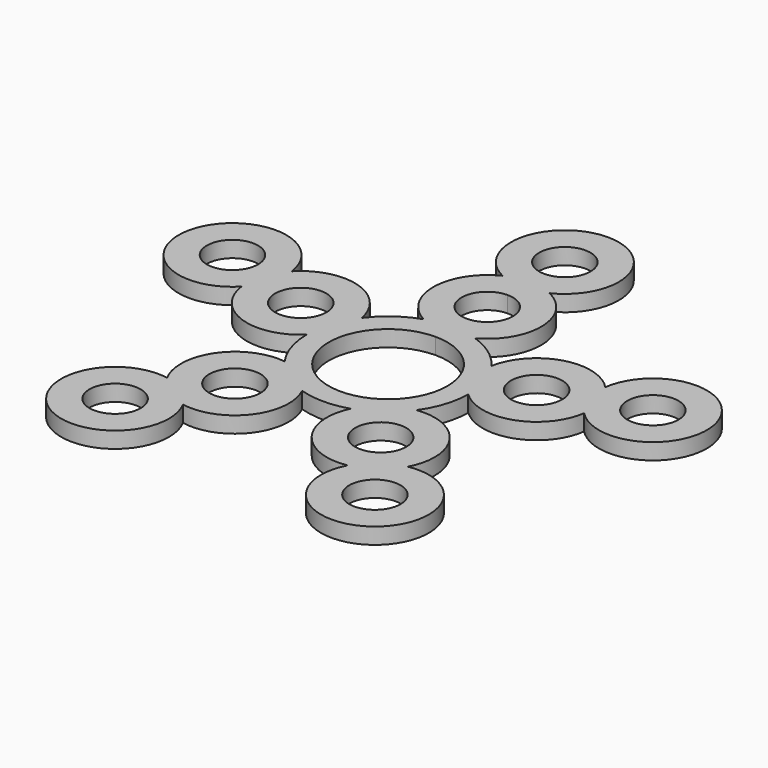
from build123d import *

# Parameters (mm, degrees)
F0_R     = 4.75
F1_DEPTH = 3


with BuildPart() as f1:
    # F0 (on Top) → F1 (new body)
    with BuildSketch(Plane.XY):
        with BuildLine():
            ThreePointArc((0, 11), (-7.778175, -7.778175), (11, 0))
            ThreePointArc((11, 0), (7.778175, 7.778175), (0, 11))
        make_face()
        with BuildLine():
            ThreePointArc((4.75, 41), (-3.358757, 44.358757), (0, 36.25))
            ThreePointArc((0, 36.25), (3.358757, 37.641243), (4.75, 41))
        make_face()
        with BuildLine():
            ThreePointArc((-4.358899, 32), (-9.997173, 23.23776), (-4.781818, 14.217391))
            ThreePointArc((-4.781818, 14.217391), (-8.816779, 12.135255), (-12.04388, 8.941195))
            ThreePointArc((-12.04388, 8.941195), (-19.011127, 16.688739), (-29.086835, 14.034103))
            ThreePointArc((-29.086835, 14.034103), (-48.503882, 15.759867), (-31.780782, 5.742985))
            ThreePointArc((-31.780782, 5.742985), (-25.18972, -2.327014), (-14.999206, -0.154364))
            ThreePointArc((-14.999206, -0.154364), (-14.265848, -4.635255), (-12.225345, -8.691429))
            ThreePointArc((-12.225345, -8.691429), (-21.746696, -12.923552), (-22.335551, -23.326447))
            ThreePointArc((-22.335551, -23.326447), (-29.977048, -41.259867), (-15.282705, -28.45064))
            ThreePointArc((-15.282705, -28.45064), (-5.57093, -24.675934), (-4.488201, -14.312793))
            ThreePointArc((-4.488201, -14.312793), (0, -15), (4.488201, -14.312793))
            ThreePointArc((4.488201, -14.312793), (5.57093, -24.675934), (15.282705, -28.45064))
            ThreePointArc((15.282705, -28.45064), (29.977048, -41.259867), (22.335551, -23.326447))
            ThreePointArc((22.335551, -23.326447), (21.746696, -12.923552), (12.225345, -8.691429))
            ThreePointArc((12.225345, -8.691429), (14.265848, -4.635255), (14.999206, -0.154364))
            ThreePointArc((14.999206, -0.154364), (25.18972, -2.327014), (31.780782, 5.742985))
            ThreePointArc((31.780782, 5.742985), (48.503882, 15.759867), (29.086835, 14.034103))
            ThreePointArc((29.086835, 14.034103), (19.011127, 16.688739), (12.04388, 8.941195))
            ThreePointArc((12.04388, 8.941195), (8.816779, 12.135255), (4.781818, 14.217391))
            ThreePointArc((4.781818, 14.217391), (9.997173, 23.23776), (4.358899, 32))
            ThreePointArc((4.358899, 32), (0, 51), (-4.358899, 32))
        make_face()
        with BuildLine():
            ThreePointArc((-26.891175, -37.012527), (-26.25565, -28.937416), (-19.349195, -33.169697))
            ThreePointArc((-19.349195, -33.169697), (-21.94274, -37.401978), (-26.891175, -37.012527))
        make_face(mode=Mode.SUBTRACT)
        with Locations((-13.519061, -18.607391)):
            Circle(F0_R, mode=Mode.SUBTRACT)
        with BuildLine():
            ThreePointArc((0, 11), (7.778175, 7.778175), (11, 0))
            ThreePointArc((11, 0), (-7.778175, -7.778175), (0, 11))
        make_face(mode=Mode.SUBTRACT)
        with Locations((24.099195, -33.169697)):
            Circle(F0_R, mode=Mode.SUBTRACT)
        with Locations((13.519061, -18.607391)):
            Circle(F0_R, mode=Mode.SUBTRACT)
        with Locations((-38.993317, 12.669697)):
            Circle(F0_R, mode=Mode.SUBTRACT)
        with Locations((-21.8743, 7.107391)):
            Circle(F0_R, mode=Mode.SUBTRACT)
        with BuildLine():
            ThreePointArc((4.75, 23), (3.358757, 19.641243), (0, 18.25))
            ThreePointArc((0, 18.25), (-4.75, 23), (0, 27.75))
            ThreePointArc((0, 27.75), (3.358757, 26.358757), (4.75, 23))
        make_face(mode=Mode.SUBTRACT)
        with BuildLine():
            ThreePointArc((4.75, 41), (3.358757, 37.641243), (0, 36.25))
            ThreePointArc((0, 36.25), (-3.358757, 44.358757), (4.75, 41))
        make_face(mode=Mode.SUBTRACT)
        with Locations((21.8743, 7.107391)):
            Circle(F0_R, mode=Mode.SUBTRACT)
        with Locations((38.993317, 12.669697)):
            Circle(F0_R, mode=Mode.SUBTRACT)
    extrude(amount=F1_DEPTH)


solid = f1.part
